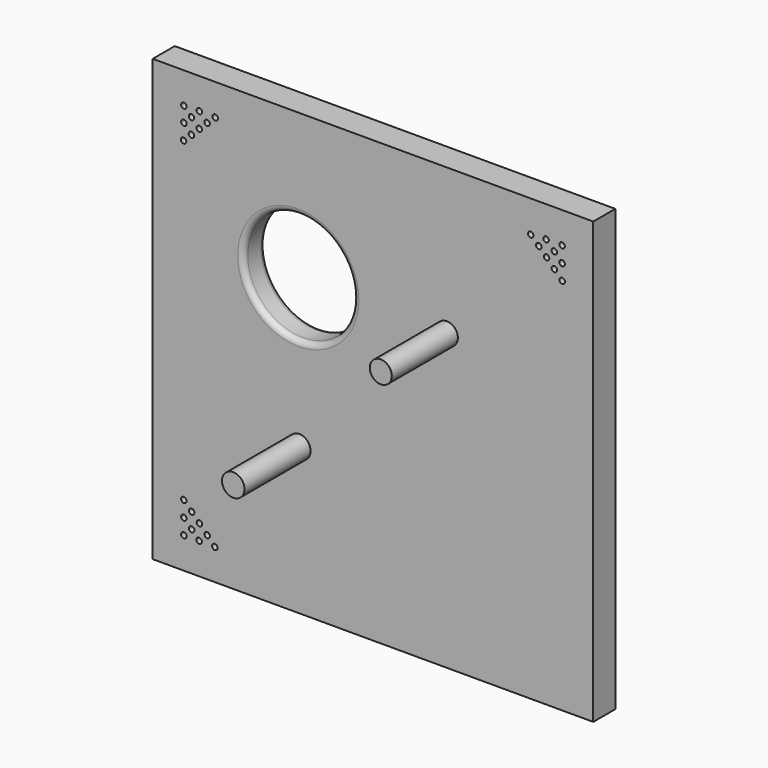
from build123d import *

# Parameters (mm, degrees)
F0_W     = 400
F0_H     = 400
F0_R     = 2.5
F0_R_2   = 10.228348
F0_R_3   = 50
F0_R_4   = 10
F1_DEPTH = 25
F2_R     = 5
F3_DEPTH = 100


with BuildPart() as f1:
    # F0 (on Front) → F1 (new body)
    with BuildSketch(Plane.XZ):
        with Locations((-11.235014, 3.358459)):
            Rectangle(F0_W, F0_H)
        with Locations((-182.950743, -168.35727)):
            Circle(F0_R, mode=Mode.SUBTRACT)
        with Locations((-175.879675, -161.286202)):
            Circle(F0_R, mode=Mode.SUBTRACT)
        with Locations((-169.089688, -168.157667)):
            Circle(F0_R, mode=Mode.SUBTRACT)
        with Locations((-161.782501, -161.33088)):
            Circle(F0_R, mode=Mode.SUBTRACT)
        with Locations((-182.950743, -154.215134)):
            Circle(F0_R, mode=Mode.SUBTRACT)
        with Locations((-175.879614, -147.144127)):
            Circle(F0_R, mode=Mode.SUBTRACT)
        with Locations((-168.808607, -154.215134)):
            Circle(F0_R, mode=Mode.SUBTRACT)
        with Locations((-154.809286, -168.498464)):
            Circle(F0_R, mode=Mode.SUBTRACT)
        with Locations((-182.98271, -140.105038)):
            Circle(F0_R, mode=Mode.SUBTRACT)
        with Locations((-78.123887, -63.530414)):
            Circle(F0_R_2, mode=Mode.SUBTRACT)
        with Locations((-78.997388, 71.41491)):
            Circle(F0_R_3, mode=Mode.SUBTRACT)
        with Locations((-183.240077, 147.128803)):
            Circle(F0_R, mode=Mode.SUBTRACT)
        with Locations((-176.072493, 154.102018)):
            Circle(F0_R, mode=Mode.SUBTRACT)
        with Locations((-182.89928, 161.409204)):
            Circle(F0_R, mode=Mode.SUBTRACT)
        with Locations((-168.956747, 161.128124)):
            Circle(F0_R, mode=Mode.SUBTRACT)
        with Locations((-176.027815, 168.199192)):
            Circle(F0_R, mode=Mode.SUBTRACT)
        with Locations((-182.92664, 175.098311)):
            Circle(F0_R, mode=Mode.SUBTRACT)
        with Locations((-161.88574, 168.199131)):
            Circle(F0_R, mode=Mode.SUBTRACT)
        with Locations((-168.956747, 175.270259)):
            Circle(F0_R, mode=Mode.SUBTRACT)
        with Locations((-154.475159, 174.922457)):
            Circle(F0_R, mode=Mode.SUBTRACT)
        with Locations((55.839185, 70.432658)):
            Circle(F0_R_4, mode=Mode.SUBTRACT)
        with Locations((160.530572, 146.804111)):
            Circle(F0_R, mode=Mode.SUBTRACT)
        with Locations((131.988816, 174.482275)):
            Circle(F0_R, mode=Mode.SUBTRACT)
        with Locations((146.356469, 160.914207)):
            Circle(F0_R, mode=Mode.SUBTRACT)
        with Locations((153.427477, 153.8432)):
            Circle(F0_R, mode=Mode.SUBTRACT)
        with Locations((160.498605, 160.914207)):
            Circle(F0_R, mode=Mode.SUBTRACT)
        with Locations((139.279189, 167.637536)):
            Circle(F0_R, mode=Mode.SUBTRACT)
        with Locations((145.93778, 175.098311)):
            Circle(F0_R, mode=Mode.SUBTRACT)
        with Locations((153.427537, 167.985275)):
            Circle(F0_R, mode=Mode.SUBTRACT)
        with Locations((160.480715, 175.074188)):
            Circle(F0_R, mode=Mode.SUBTRACT)
    extrude(amount=F1_DEPTH)

    # F2
    f2_edges = [f1.edges().sort_by_distance(p)[0] for p in [
        (-128.997388, 0, 71.41491),
        (-128.997388, -25, 71.41491),
    ]]
    fillet(f2_edges, radius=F2_R)

    # F0 (on Front) → F3 (join)
    with BuildSketch(Plane.XZ):
        with Locations((55.839185, 70.432658)):
            Circle(F0_R_4)
        with Locations((-78.123887, -63.530414)):
            Circle(F0_R_2)
    extrude(amount=F3_DEPTH)


solid = f1.part
